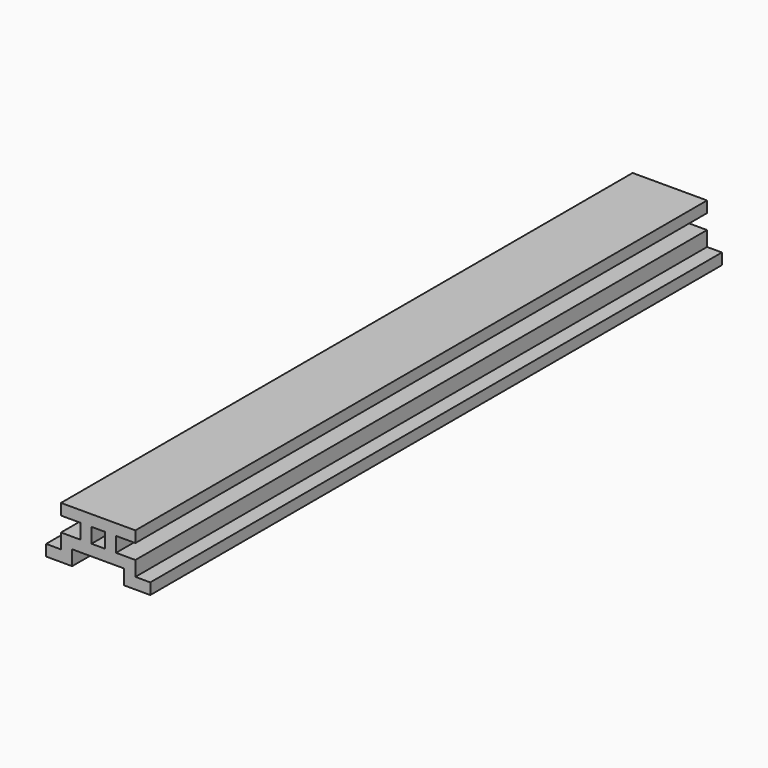
from build123d import *

# Parameters (mm, degrees)
F1_DEPTH = 304.8


with BuildPart() as f1:
    # F0 (on Front) → F1 (new body)
    with BuildSketch(Plane.XZ):
        Polygon((-15.875, -6.35), (-22.225, -6.35), (-22.225, -11.1125), (-11.1125, -11.1125), (-11.1125, -4.7625), (0, -4.7625), (11.1125, -4.7625), (11.1125, -11.1125), (22.225, -11.1125), (22.225, -6.35), (15.875, -6.35), (15.875, 0), (7.62, 0), (7.62, 6.35), (15.875, 6.35), (15.875, 11.1125), (0, 11.1125), (-15.875, 11.1125), (-15.875, 6.35), (-7.62, 6.35), (-7.62, 0), (-15.875, 0), align=None)
        Polygon((0, 0), (-2.8575, 0), (-2.8575, 6.35), (0, 6.35), (2.8575, 6.35), (2.8575, 0), align=None, mode=Mode.SUBTRACT)
    extrude(amount=F1_DEPTH)


solid = f1.part
